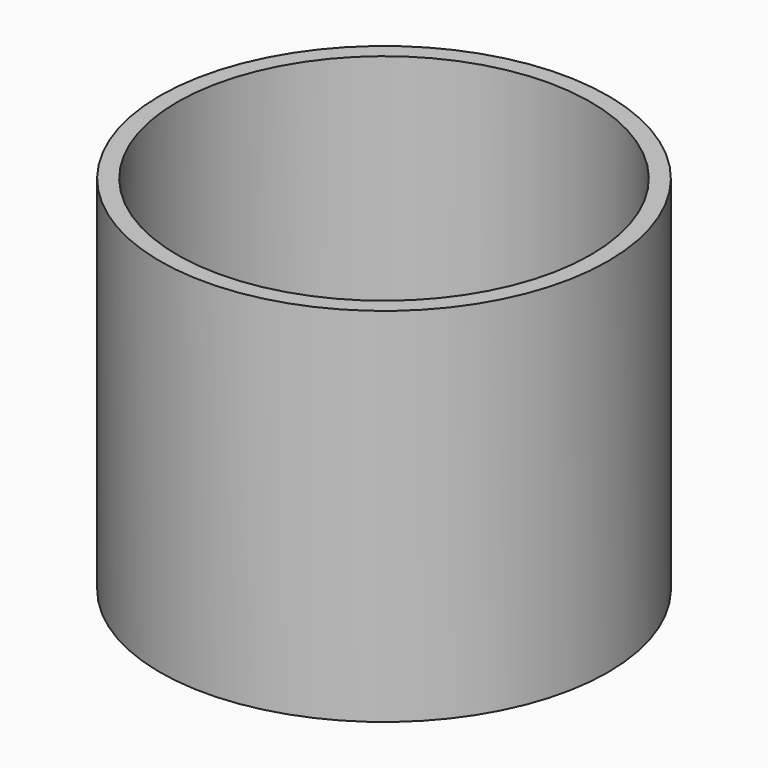
from build123d import *

# Parameters (mm, degrees)
CYLINDER011_R     = 12
CYLINDER011_DEPTH = 21
CYLINDER010_R     = 13
CYLINDER010_DEPTH = 21


with BuildPart() as cylinder006:
    # Cylinder011 → Cylinder011 (new body)
    with BuildSketch(Plane.XY):
        Circle(CYLINDER011_R)
    extrude(amount=CYLINDER011_DEPTH)


with BuildPart() as cut006:
    # Cylinder010 → Cylinder010 (new body)
    with BuildSketch(Plane.XY):
        Circle(CYLINDER010_R)
    extrude(amount=CYLINDER010_DEPTH)

    # Cut006: cut Cylinder006
    add(cylinder006.part, mode=Mode.SUBTRACT)


with BuildPart() as cut006_1:
    # Cut006 placement: moved
    add(cut006.part.moved(Location((0, 0, 21))))


solid = cut006_1.part
